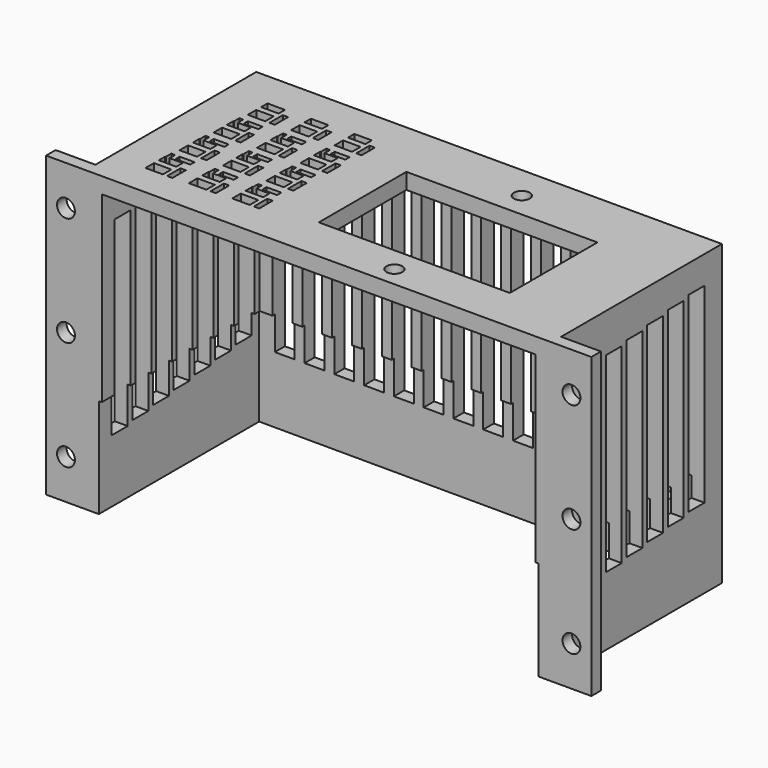
from build123d import *

# Parameters (mm, degrees)
F1_DEPTH  = 50
F0_W      = 4.391961
F0_H      = 2.673366
F0_H_2    = 2.673365
F0_W_2    = 1.336686
F0_H_3    = 4.201005
F0_H_4    = 4.201004
F0_W_3    = 1.336687
F0_W_4    = 3.723614
F0_H_5    = 1.336681
F0_W_5    = 4.39196
F0_H_6    = 1.33668
F0_W_6    = 3.723613
F0_H_7    = 2.005024
F0_R      = 2
F0_W_7    = 48
F0_H_8    = 27.5
F2_DEPTH  = 4
F4_DEPTH  = 25
F5_R      = 2.25
F6_DEPTH  = 3.001
F7_W      = 5
F7_H      = 48
F8_DEPTH  = 127.001
F9_W      = 5
F9_H      = 51.637035
F10_DEPTH = 53.501


with BuildPart() as f1:
    # F0 (on Top) → F1 (new body)
    with BuildSketch(Plane.XY):
        Polygon((21.601341, 38.691305), (-95.398659, 38.691305), (-95.398659, -11.808695), (-105.398659, -11.808695), (-105.398659, -14.808695), (-95.398659, -14.808695), (-91.398659, -14.808695), (-91.398659, 34.793235), (17.601341, 34.691305), (17.601341, -14.808695), (21.601341, -14.808695), (31.601341, -14.808695), (31.601341, -11.808695), (21.601341, -11.808695), align=None)
    extrude(amount=-F1_DEPTH)

    # F0 (on Top) → F2 (join)
    with BuildSketch(Plane.XY):
        Polygon((-91.398659, 34.793235), (-91.398659, -14.808695), (17.601341, -14.808695), (17.601341, 34.691305), align=None)
        with Locations((-84.682862, -5.413097)):
            Rectangle(F0_W, F0_H, mode=Mode.SUBTRACT)
        with Locations((-73.986027, -5.152893)):
            Rectangle(F0_W, F0_H_2, mode=Mode.SUBTRACT)
        with Locations((-80.76829, -4.649278)):
            Rectangle(F0_W_2, F0_H_3, mode=Mode.SUBTRACT)
        with Locations((-63.28919, -4.89269)):
            Rectangle(F0_W, F0_H_2, mode=Mode.SUBTRACT)
        with Locations((-70.071454, -4.389074)):
            Rectangle(F0_W_2, F0_H_4, mode=Mode.SUBTRACT)
        with Locations((-59.374618, -4.128871)):
            Rectangle(F0_W_3, F0_H_4, mode=Mode.SUBTRACT)
        Polygon((-82.486882, -2.548775), (-86.878843, -2.548775), (-86.878843, -0.543751), (-86.739594, -0.543751), (-86.739594, 1.205968), (-85.784817, 1.205968), (-85.784817, -0.543751), (-82.486882, -0.543751), align=None, mode=Mode.SUBTRACT)
        with Locations((-82.777282, 0.537627)):
            Rectangle(F0_W_4, F0_H_5, mode=Mode.SUBTRACT)
        Polygon((-71.790046, -2.288572), (-76.182007, -2.288572), (-76.182007, -0.283548), (-76.042759, -0.283548), (-76.042759, 1.466171), (-75.087982, 1.466171), (-75.087982, -0.283548), (-71.790046, -0.283548), align=None, mode=Mode.SUBTRACT)
        with Locations((-72.080447, 0.79783)):
            Rectangle(F0_W_4, F0_H_5, mode=Mode.SUBTRACT)
        with Locations((-84.161704, 4.643152)):
            Rectangle(F0_W, F0_H_2, mode=Mode.SUBTRACT)
        with Locations((-73.464869, 4.903354)):
            Rectangle(F0_W_5, F0_H_2, mode=Mode.SUBTRACT)
        with Locations((-80.247132, 5.406971)):
            Rectangle(F0_W_2, F0_H_4, mode=Mode.SUBTRACT)
        Polygon((-81.965724, 7.507473), (-86.357685, 7.507473), (-86.357685, 9.512497), (-86.218437, 9.512497), (-86.218437, 11.262216), (-85.26366, 11.262216), (-85.26366, 9.512497), (-81.965724, 9.512497), align=None, mode=Mode.SUBTRACT)
        with Locations((-82.256125, 10.593876)):
            Rectangle(F0_W_4, F0_H_6, mode=Mode.SUBTRACT)
        Polygon((-71.268889, 7.767676), (-75.660849, 7.767676), (-75.660849, 9.7727), (-75.521601, 9.7727), (-75.521601, 11.522419), (-74.566824, 11.522419), (-74.566824, 9.7727), (-71.268889, 9.7727), align=None, mode=Mode.SUBTRACT)
        with Locations((-71.559289, 10.854079)):
            Rectangle(F0_W_4, F0_H_6, mode=Mode.SUBTRACT)
        Polygon((-61.09321, -2.028369), (-65.485171, -2.028369), (-65.485171, -0.023345), (-65.345923, -0.023345), (-65.345923, 1.726374), (-64.391146, 1.726374), (-64.391146, -0.023345), (-61.09321, -0.023345), align=None, mode=Mode.SUBTRACT)
        with Locations((-61.383611, 1.058033)):
            Rectangle(F0_W_4, F0_H_5, mode=Mode.SUBTRACT)
        with Locations((-62.768033, 5.163557)):
            Rectangle(F0_W, F0_H_2, mode=Mode.SUBTRACT)
        with Locations((-69.550297, 5.667174)):
            Rectangle(F0_W_3, F0_H_4, mode=Mode.SUBTRACT)
        with Locations((-58.853461, 5.927377)):
            Rectangle(F0_W_2, F0_H_3, mode=Mode.SUBTRACT)
        Polygon((-60.572053, 8.02788), (-64.964014, 8.02788), (-64.964014, 10.032903), (-64.824765, 10.032903), (-64.824765, 11.782623), (-63.869988, 11.782623), (-63.869988, 10.032903), (-60.572053, 10.032903), align=None, mode=Mode.SUBTRACT)
        with Locations((-60.862454, 11.114282)):
            Rectangle(F0_W_4, F0_H_5, mode=Mode.SUBTRACT)
        Polygon((-21.881657, 34.691305), (7.868343, 24.491305), (7.868343, -4.108695), (-21.881657, -14.308695), (-51.631657, -4.108695), (-51.631657, 24.491305), align=None, mode=Mode.SUBTRACT)
        with Locations((-83.640547, 14.6994)):
            Rectangle(F0_W, F0_H_2, mode=Mode.SUBTRACT)
        with Locations((-72.943712, 14.959604)):
            Rectangle(F0_W, F0_H_2, mode=Mode.SUBTRACT)
        with Locations((-79.725975, 15.46322)):
            Rectangle(F0_W_2, F0_H_4, mode=Mode.SUBTRACT)
        Polygon((-81.444567, 17.563722), (-85.836528, 17.563722), (-85.836528, 19.568746), (-85.697279, 19.568746), (-85.697279, 21.318465), (-84.742502, 21.318465), (-84.742502, 19.568746), (-81.444567, 19.568746), align=None, mode=Mode.SUBTRACT)
        with Locations((-81.734967, 20.650124)):
            Rectangle(F0_W_6, F0_H_5, mode=Mode.SUBTRACT)
        Polygon((-70.747731, 17.823925), (-75.139692, 17.823925), (-75.139692, 19.828949), (-75.000444, 19.828949), (-75.000444, 21.578668), (-74.045667, 21.578668), (-74.045667, 19.828949), (-70.747731, 19.828949), align=None, mode=Mode.SUBTRACT)
        with Locations((-83.119389, 24.755648)):
            Rectangle(F0_W, F0_H_2, mode=Mode.SUBTRACT)
        with Locations((-72.422554, 25.015851)):
            Rectangle(F0_W_5, F0_H_2, mode=Mode.SUBTRACT)
        with Locations((-62.246875, 15.219806)):
            Rectangle(F0_W, F0_H_2, mode=Mode.SUBTRACT)
        with Locations((-69.029139, 15.723423)):
            Rectangle(F0_W_2, F0_H_4, mode=Mode.SUBTRACT)
        with Locations((-58.332303, 15.983626)):
            Rectangle(F0_W_3, F0_H_4, mode=Mode.SUBTRACT)
        with Locations((-71.038132, 20.910328)):
            Rectangle(F0_W_4, F0_H_5, mode=Mode.SUBTRACT)
        Polygon((-60.050895, 18.084128), (-64.442856, 18.084128), (-64.442856, 20.089152), (-64.303608, 20.089152), (-64.303608, 21.838871), (-63.348831, 21.838871), (-63.348831, 20.089152), (-60.050895, 20.089152), align=None, mode=Mode.SUBTRACT)
        with Locations((-60.341296, 21.17053)):
            Rectangle(F0_W_4, F0_H_5, mode=Mode.SUBTRACT)
        with Locations((-61.725718, 25.276055)):
            Rectangle(F0_W, F0_H, mode=Mode.SUBTRACT)
        with Locations((-83.119389, 28.622482)):
            Rectangle(F0_W, F0_H_7, mode=Mode.SUBTRACT)
        with Locations((-79.204817, 25.519468)):
            Rectangle(F0_W_3, F0_H_4, mode=Mode.SUBTRACT)
        with Locations((-72.422554, 28.882685)):
            Rectangle(F0_W_5, F0_H_7, mode=Mode.SUBTRACT)
        with Locations((-68.507982, 25.779671)):
            Rectangle(F0_W_2, F0_H_4, mode=Mode.SUBTRACT)
        with Locations((-57.811146, 26.039874)):
            Rectangle(F0_W_2, F0_H_3, mode=Mode.SUBTRACT)
        with Locations((-61.725718, 29.142889)):
            Rectangle(F0_W, F0_H_7, mode=Mode.SUBTRACT)
        Polygon((7.868343, -4.108695), (7.868343, 24.491305), (-21.881657, 34.691305), (-51.631657, 24.491305), (-51.631657, -4.108695), (-21.881657, -14.308695), align=None)
        with Locations((-21.881657, -9.808695)):
            Circle(F0_R, mode=Mode.SUBTRACT)
        with Locations((-21.881657, 10.191305)):
            Rectangle(F0_W_7, F0_H_8, mode=Mode.SUBTRACT)
        with Locations((-21.881657, 30.191305)):
            Circle(F0_R, mode=Mode.SUBTRACT)
    extrude(amount=-F2_DEPTH)

    # F3 (on face) → F4 (join)
    with BuildSketch(Plane(origin=(0, 0, -50), x_dir=(1, 0, 0), z_dir=(0, 0, -1))):
        Polygon((-92.148659, -35.543235), (-92.148659, 14.808695), (-105.398659, 14.808695), (-105.398659, 11.808695), (-95.398659, 11.808695), (-95.398659, -38.691305), (21.601341, -38.691305), (21.601341, 11.808695), (31.601341, 11.808695), (31.601341, 14.808695), (18.351341, 14.808695), (18.351341, -35.191305), align=None)
    extrude(amount=F4_DEPTH)

    # F5 (on face) → F6 (cut, through all)
    with BuildSketch(Plane(origin=(0, -11.808695, 0), x_dir=(-1, 0, 0), z_dir=(0, 1, 0))):
        with Locations((-26.601341, -10)):
            Circle(F5_R)
        with Locations((-26.601341, -37.5)):
            Circle(F5_R)
        with Locations((-26.601341, -65)):
            Circle(F5_R)
        with Locations((100.398659, -65)):
            Circle(F5_R)
        with Locations((100.398659, -37.5)):
            Circle(F5_R)
        with Locations((100.398659, -10)):
            Circle(F5_R)
    extrude(amount=-F6_DEPTH, mode=Mode.SUBTRACT)

    # F7 (on face) → F8 (cut, through all)
    with BuildSketch(Plane(origin=(-95.398659, 0, 0), x_dir=(0, -1, 0), z_dir=(-1, 0, 0))):
        with Locations((-30.691305, -31)):
            Rectangle(F7_W, F7_H)
        with Locations((-24.2, -31.7)):
            Rectangle(F7_W, F7_H)
        with Locations((-17.708695, -32.4)):
            Rectangle(F7_W, F7_H)
        with Locations((-11.217391, -33.1)):
            Rectangle(F7_W, F7_H)
        with Locations((-4.726086, -33.8)):
            Rectangle(F7_W, F7_H)
        with Locations((1.765218, -34.5)):
            Rectangle(F7_W, F7_H)
        with Locations((8.256523, -35.2)):
            Rectangle(F7_W, F7_H)
    extrude(amount=-F8_DEPTH, mode=Mode.SUBTRACT)

    # F9 (on face) → F10 (cut, through all)
    with BuildSketch(Plane(origin=(0, 38.691305, 0), x_dir=(-1, 0, 0), z_dir=(0, 1, 0))):
        with Locations((85.705455, -32.516822)):
            Rectangle(F9_W, F9_H)
        with Locations((78.205455, -32.516822)):
            Rectangle(F9_W, F9_H)
        with Locations((70.705455, -32.516822)):
            Rectangle(F9_W, F9_H)
        with Locations((63.205455, -32.516822)):
            Rectangle(F9_W, F9_H)
        with Locations((55.705455, -32.516822)):
            Rectangle(F9_W, F9_H)
        with Locations((48.205455, -32.516822)):
            Rectangle(F9_W, F9_H)
        with Locations((40.705455, -32.516822)):
            Rectangle(F9_W, F9_H)
        with Locations((33.205455, -32.516822)):
            Rectangle(F9_W, F9_H)
        with Locations((25.705455, -32.516822)):
            Rectangle(F9_W, F9_H)
        with Locations((18.205455, -32.516822)):
            Rectangle(F9_W, F9_H)
        with Locations((10.705455, -32.516822)):
            Rectangle(F9_W, F9_H)
        with Locations((3.205455, -32.516822)):
            Rectangle(F9_W, F9_H)
        with Locations((-4.294545, -32.516822)):
            Rectangle(F9_W, F9_H)
        with Locations((-11.794545, -32.516822)):
            Rectangle(F9_W, F9_H)
    extrude(amount=-F10_DEPTH, mode=Mode.SUBTRACT)


solid = f1.part
